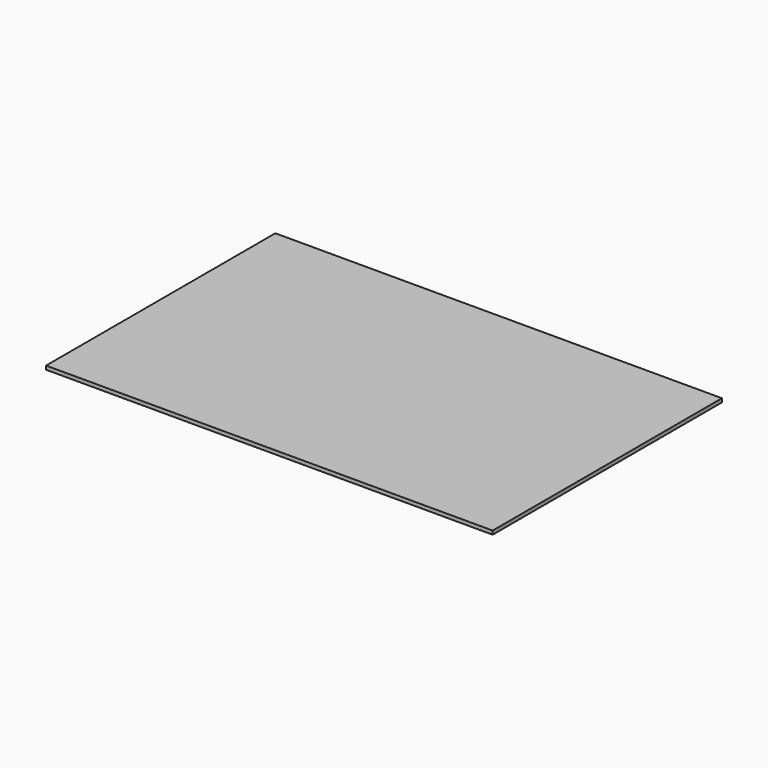
from build123d import *

# Parameters (mm, degrees)
SKETCH_W  = 784
SKETCH_H  = 503
PAD_DEPTH = 6.5


with BuildPart() as part:
    # Sketch → Pad (new body)
    with BuildSketch(Plane.XY):
        Rectangle(SKETCH_W, SKETCH_H)
    extrude(amount=PAD_DEPTH)


solid = part.part
